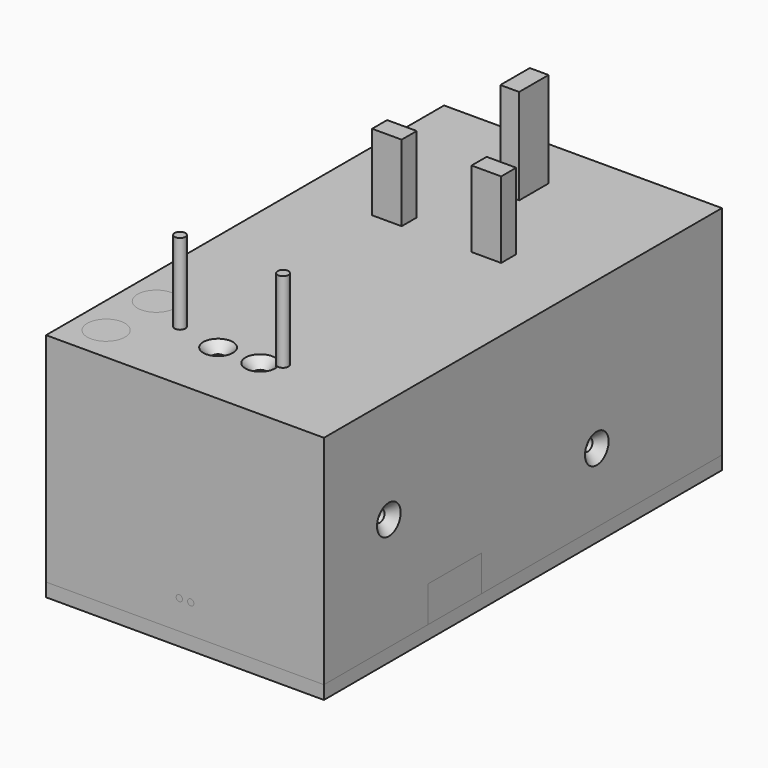
from build123d import *

# Parameters (mm, degrees)
BOX008_W                = 48
BOX008_H                = 100
BOX008_DEPTH            = 2
CYLINDER001_R           = 1.2
CYLINDER001_DEPTH       = 60
CYLINDER002_R           = 1.2
CYLINDER002_DEPTH       = 60
BOX012_W                = 16
BOX012_H                = 30
BOX012_DEPTH            = 8
BOX014_W                = 25
BOX014_H                = 16
BOX014_DEPTH            = 14
CYLINDER007_R           = 3
CYLINDER007_DEPTH       = 20
CYLINDER011_R           = 1.7
CYLINDER011_DEPTH       = 50
CYLINDER010_R           = 1.7
CYLINDER010_DEPTH       = 50
BOX022_W                = 7.5
BOX022_H                = 22
BOX022_DEPTH            = 8
CYLINDER014_R           = 1.7
CYLINDER014_DEPTH       = 50
BOX023_W                = 62
BOX023_H                = 111
BOX023_DEPTH            = 3
BOX029_W                = 50
BOX029_H                = 50
BOX029_DEPTH            = 101
BOX028_W                = 50
BOX028_H                = 50
BOX028_DEPTH            = 100
CYLINDER019_R           = 6
CYLINDER019_DEPTH       = 70
BOX027_W                = 48.2
BOX027_H                = 49.4
BOX027_DEPTH            = 50
CHAMFER003_SIZE         = 24
CHAMFER004_SIZE         = 24
FILLET004_R             = 6
FILLET005_R             = 6
FILLET006_R             = 6
FILLET007_R             = 6
BOX026_W                = 4.2
BOX026_H                = 8.2
BOX026_DEPTH            = 22.3
BOX025_W                = 6.6
BOX025_H                = 4.2
BOX025_DEPTH            = 18
BOX024_W                = 6.6
BOX024_H                = 4.2
BOX024_DEPTH            = 18
CONE004_PITCH_ANGLE     = 90
CYLINDER020_R           = 1.3
CYLINDER020_DEPTH       = 20
CYLINDER020_PITCH_ANGLE = 90
FUSION035_PITCH_ANGLE   = 90
FUSION034_PITCH_ANGLE   = 90
BOX032_W                = 56
BOX032_H                = 105
BOX032_DEPTH            = 48
BOX031_W                = 62
BOX031_H                = 111
BOX031_DEPTH            = 48.5
CYLINDER025_R           = 1.2
CYLINDER025_DEPTH       = 60
CYLINDER024_R           = 1.2
CYLINDER024_DEPTH       = 60
BOX030_W                = 55.5
BOX030_H                = 25
BOX030_DEPTH            = 2
BOX013_W                = 44
BOX013_H                = 100
BOX013_DEPTH            = 25
CYLINDER004_R           = 1.2
CYLINDER004_DEPTH       = 60
CYLINDER003_R           = 1.2
CYLINDER003_DEPTH       = 60
CONE_PITCH_ANGLE        = 90
CYLINDER005_R           = 1.3
CYLINDER005_DEPTH       = 20
CYLINDER005_PITCH_ANGLE = 90
BOX011_W                = 42
BOX011_H                = 14
BOX011_DEPTH            = 19
BOX010_W                = 55.5
BOX010_H                = 9
BOX010_DEPTH            = 8
CYLINDER026_R           = 6
CYLINDER026_DEPTH       = 70
CYLINDER023_R           = 0.7
CYLINDER023_DEPTH       = 10
CYLINDER023_ROLL_ANGLE  = 90
CYLINDER022_R           = 0.7
CYLINDER022_DEPTH       = 10
CYLINDER022_ROLL_ANGLE  = 90
BOX006_W                = 50
BOX006_H                = 50
BOX006_DEPTH            = 101
BOX004_W                = 50
BOX004_H                = 50
BOX004_DEPTH            = 100
CYLINDER_R              = 6
CYLINDER_DEPTH          = 70
BOX003_W                = 49.2
BOX003_H                = 50.4
BOX003_DEPTH            = 50
CHAMFER_SIZE            = 24
CHAMFER001_SIZE         = 24
FILLET_R                = 6
FILLET001_R             = 6
FILLET002_R             = 6
FILLET003_R             = 6
BOX002_W                = 4.2
BOX002_H                = 8.2
BOX002_DEPTH            = 22.3
BOX001_W                = 6.6
BOX001_H                = 4.2
BOX001_DEPTH            = 18
BOX_W                   = 6.6
BOX_H                   = 4.2
BOX_DEPTH               = 18
CYLINDER018_R           = 5
CYLINDER018_DEPTH       = 21
BOX009_W                = 30
BOX009_H                = 15
BOX009_DEPTH            = 8
CYLINDER017_R           = 1.2
CYLINDER017_DEPTH       = 50
CYLINDER016_R           = 1.2
CYLINDER016_DEPTH       = 50
CYLINDER015_R           = 1.2
CYLINDER015_DEPTH       = 50
CYLINDER013_R           = 1.2
CYLINDER013_DEPTH       = 50
CYLINDER012_R           = 3
CYLINDER012_DEPTH       = 20
CYLINDER009_R           = 1.7
CYLINDER009_DEPTH       = 50
CYLINDER008_R           = 1.7
CYLINDER008_DEPTH       = 50
CYLINDER006_R           = 2.5
CYLINDER006_DEPTH       = 105
CYLINDER006_ROLL_ANGLE  = 90
BOX016_W                = 16
BOX016_H                = 17
BOX016_DEPTH            = 14
BOX017_W                = 16
BOX017_H                = 23
BOX017_DEPTH            = 14
FUSION012_PITCH_ANGLE   = 90
FUSION011_PITCH_ANGLE   = 90
BOX007_W                = 56
BOX007_H                = 105
BOX007_DEPTH            = 48
BOX005_W                = 62
BOX005_H                = 111
BOX005_DEPTH            = 48.5
CHAMFER005_SIZE         = 8
BOX015_W                = 58
BOX015_H                = 3
BOX015_DEPTH            = 18
BOX021_W                = 8
BOX021_H                = 23
BOX021_DEPTH            = 6
BOX020_W                = 29
BOX020_H                = 24
BOX020_DEPTH            = 10
BOX020_ROLL_ANGLE       = -45
BOX020_PITCH_ANGLE      = -45
BOX020_PLACEMENT_ANGLE  = 0
BOX019_W                = 21
BOX019_H                = 10
BOX019_DEPTH            = 23
BOX019_PLACEMENT_ANGLE  = 45
BOX018_W                = 10
BOX018_H                = 10
BOX018_DEPTH            = 20
CUT024_PLACEMENT_ANGLE  = 90
CUT025_PLACEMENT_ANGLE  = 180
CUT026_PLACEMENT_ANGLE  = -90
CYLINDER028_R           = 1.2
CYLINDER028_DEPTH       = 60
CYLINDER027_R           = 1.2
CYLINDER027_DEPTH       = 60
BOX033_W                = 55.5
BOX033_H                = 7
BOX033_DEPTH            = 4.4
CYLINDER030_R           = 1.7
CYLINDER030_DEPTH       = 60
CYLINDER029_R           = 1.7
CYLINDER029_DEPTH       = 60


with BuildPart() as pcb:
    # Box008 → Box008 (new body)
    with BuildSketch(Plane(origin=(-27, -68, -30), x_dir=(1, 0, 0), z_dir=(0, 0, 1))):
        with Locations((24, 50)):
            Rectangle(BOX008_W, BOX008_H)
    extrude(amount=BOX008_DEPTH)


with BuildPart() as cylinder001:
    # Cylinder001 → Cylinder001 (new body)
    with BuildSketch(Plane(origin=(-14.8, -55.9, -42), x_dir=(1, 0, 0), z_dir=(0, 0, 1))):
        Circle(CYLINDER001_R)
    extrude(amount=CYLINDER001_DEPTH)


with BuildPart() as cylinder002:
    # Cylinder002 → Cylinder002 (new body)
    with BuildSketch(Plane(origin=(8.2, -55.9, -42), x_dir=(1, 0, 0), z_dir=(0, 0, 1))):
        Circle(CYLINDER002_R)
    extrude(amount=CYLINDER002_DEPTH)


with BuildPart() as usb_a_plug:
    # Box012 → Box012 (new body)
    with BuildSketch(Plane(origin=(-8, -43, -11), x_dir=(1, 0, 0), z_dir=(0, 0, 1))):
        with Locations((8, 15)):
            Rectangle(BOX012_W, BOX012_H)
    extrude(amount=BOX012_DEPTH)


with BuildPart() as screw_con:
    # Box014 → Box014 (new body)
    with BuildSketch(Plane(origin=(-12.5, -66, -17), x_dir=(1, 0, 0), z_dir=(0, 0, 1))):
        with Locations((12.5, 8)):
            Rectangle(BOX014_W, BOX014_H)
    extrude(amount=BOX014_DEPTH)


with BuildPart() as cable:
    # Cylinder007 → Cylinder007 (new body)
    with BuildSketch(Plane(origin=(-34, -58, -9), x_dir=(0, 1, 0), z_dir=(1, 0, 0))):
        Circle(CYLINDER007_R)
    extrude(amount=CYLINDER007_DEPTH)


with BuildPart() as cylinder027:
    # Cylinder011 → Cylinder011 (new body)
    with BuildSketch(Plane(origin=(-24, -51, -18), x_dir=(1, 0, 0), z_dir=(0, 0, 1))):
        Circle(CYLINDER011_R)
    extrude(amount=CYLINDER011_DEPTH)


with BuildPart() as cylinder021:
    # Cylinder010 → Cylinder010 (new body)
    with BuildSketch(Plane(origin=(-24, -65, -19), x_dir=(1, 0, 0), z_dir=(0, 0, 1))):
        Circle(CYLINDER010_R)
    extrude(amount=CYLINDER010_DEPTH)


with BuildPart() as cable_clamp:
    # Box022 → Box022 (new body)
    with BuildSketch(Plane(origin=(-27.5, -69.5, -17), x_dir=(1, 0, 0), z_dir=(0, 0, 1))):
        with Locations((3.75, 11)):
            Rectangle(BOX022_W, BOX022_H)
    extrude(amount=BOX022_DEPTH)

    # Cut031: cut Cylinder021
    add(cylinder021.part, mode=Mode.SUBTRACT)

    # Cut032: cut Cylinder027
    add(cylinder027.part, mode=Mode.SUBTRACT)

    # Cut034: cut cable
    add(cable.part, mode=Mode.SUBTRACT)


with BuildPart() as cylinder029:
    # Cylinder014 → Cylinder014 (new body)
    with BuildSketch(Plane(origin=(-25, -67, -90), x_dir=(1, 0, 0), z_dir=(0, 0, 1))):
        Circle(CYLINDER014_R)
    extrude(amount=CYLINDER014_DEPTH)


with BuildPart() as cone003:
    # Cone003 → Cone003 (revolve)
    with BuildSketch(Plane(origin=(-25, -67, -51.5), x_dir=(1, 0, 0), z_dir=(0, -1, 0))):
        Polygon((0, 0), (4.2, 0), (1.7, 2.5), (0, 2.5), align=None)
    revolve(axis=Axis((-25, -67, -51.5), (0, 0, 1)))


with BuildPart() as fusion022:
    # Fusion022 base: copy of Cone003
    add(cone003.part)

    # Fusion022: union Cylinder029
    add(cylinder029.part)


with BuildPart() as fusion022_1:
    # Fusion022 placement: moved
    add(fusion022.part.moved(Location((0, 99, 0))))


with BuildPart() as fusion023:
    # Fusion023 base: copy of Cone003
    add(cone003.part)

    # Fusion023: union Cylinder029
    add(cylinder029.part)


with BuildPart() as fusion023_1:
    # Fusion023 placement: moved
    add(fusion023.part.moved(Location((50, 99, 0))))


with BuildPart() as fusion019:
    # Fusion019 base: copy of Cone003
    add(cone003.part)

    # Fusion019: union Cylinder029
    add(cylinder029.part)


with BuildPart() as fusion021:
    # Fusion021 base: copy of Cone003
    add(cone003.part)

    # Fusion021: union Cylinder029
    add(cylinder029.part)


with BuildPart() as fusion021_1:
    # Fusion021 placement: moved
    add(fusion021.part.moved(Location((50, 0, 0))))


with BuildPart() as lid:
    # Box023 → Box023 (new body)
    with BuildSketch(Plane(origin=(-31, -73, -51.5), x_dir=(1, 0, 0), z_dir=(0, 0, 1))):
        with Locations((31, 55.5)):
            Rectangle(BOX023_W, BOX023_H)
    extrude(amount=BOX023_DEPTH)

    # Cut039: cut Fusion021
    add(fusion021_1.part, mode=Mode.SUBTRACT)

    # Cut040: cut Fusion019
    add(fusion019.part, mode=Mode.SUBTRACT)

    # Cut041: cut Fusion023
    add(fusion023_1.part, mode=Mode.SUBTRACT)

    # Cut042: cut Fusion022
    add(fusion022_1.part, mode=Mode.SUBTRACT)


with BuildPart() as cube021:
    # Box029 → Box029 (new body)
    with BuildSketch(Plane(origin=(-25, -16, -123.5), x_dir=(1, 0, 0), z_dir=(0, 0, 1))):
        with Locations((25, 25)):
            Rectangle(BOX029_W, BOX029_H)
    extrude(amount=BOX029_DEPTH)


with BuildPart() as cube020:
    # Box028 → Box028 (new body)
    with BuildSketch(Plane(origin=(-25, -18, -60), x_dir=(1, 0, 0), z_dir=(0, 0, 1))):
        with Locations((25, 25)):
            Rectangle(BOX028_W, BOX028_H)
    extrude(amount=BOX028_DEPTH)


with BuildPart() as fusion024:
    # Cylinder019 → Cylinder019 (new body)
    with BuildSketch(Plane(origin=(0, 27.75, -60), x_dir=(1, 0, 0), z_dir=(0, 0, 1))):
        Circle(CYLINDER019_R)
    extrude(amount=CYLINDER019_DEPTH)

    # Fusion024: union Cube020
    add(cube020.part)


with BuildPart() as common001:
    # Box027 → Box027 (new body)
    with BuildSketch(Plane(origin=(-24.1, -13.3, -50), x_dir=(1, 0, 0), z_dir=(0, 0, 1))):
        with Locations((24.1, 24.7)):
            Rectangle(BOX027_W, BOX027_H)
    extrude(amount=BOX027_DEPTH)

    # Chamfer003
    chamfer003_edges = [common001.edges().sort_by_distance(p)[0] for p in [
        (-24.1, 36.1, -25),
    ]]
    chamfer(chamfer003_edges, length=CHAMFER003_SIZE)

    # Chamfer004
    chamfer004_edges = [common001.edges().sort_by_distance(p)[0] for p in [
        (24.1, 36.1, -25),
    ]]
    chamfer(chamfer004_edges, length=CHAMFER004_SIZE)

    # Fillet004
    fillet004_edges = [common001.edges().sort_by_distance(p)[0] for p in [
        (24.1, -13.3, -25),
    ]]
    fillet(fillet004_edges, radius=FILLET004_R)

    # Fillet005
    fillet005_edges = [common001.edges().sort_by_distance(p)[0] for p in [
        (24.1, 12.1, -25),
    ]]
    fillet(fillet005_edges, radius=FILLET005_R)

    # Fillet006
    fillet006_edges = [common001.edges().sort_by_distance(p)[0] for p in [
        (-24.1, -13.3, -25),
    ]]
    fillet(fillet006_edges, radius=FILLET006_R)

    # Fillet007
    fillet007_edges = [common001.edges().sort_by_distance(p)[0] for p in [
        (-24.1, 12.1, -25),
    ]]
    fillet(fillet007_edges, radius=FILLET007_R)

    # Common001: intersect Fusion024
    add(fusion024.part, mode=Mode.INTERSECT)


with BuildPart() as fusion025:
    # Box026 → Box026 (new body)
    with BuildSketch(Plane(origin=(-2.1, 18.2, 0), x_dir=(1, 0, 0), z_dir=(0, 0, 1))):
        with Locations((2.1, 4.1)):
            Rectangle(BOX026_W, BOX026_H)
    extrude(amount=BOX026_DEPTH)

    # Fusion025: union Common001
    add(common001.part)


with BuildPart() as fusion026:
    # Box025 → Box025 (new body)
    with BuildSketch(Plane(origin=(-14.4, -2.2, 0), x_dir=(1, 0, 0), z_dir=(0, 0, 1))):
        with Locations((3.3, 2.1)):
            Rectangle(BOX025_W, BOX025_H)
    extrude(amount=BOX025_DEPTH)

    # Fusion026: union Fusion025
    add(fusion025.part)


with BuildPart() as f_13a_charger:
    # Box024 → Box024 (new body)
    with BuildSketch(Plane(origin=(7.8, -2.2, 0), x_dir=(1, 0, 0), z_dir=(0, 0, 1))):
        with Locations((3.3, 2.1)):
            Rectangle(BOX024_W, BOX024_H)
    extrude(amount=BOX024_DEPTH)

    # Fusion027: union Fusion026
    add(fusion026.part)

    # Cut046: cut Cube021
    add(cube021.part, mode=Mode.SUBTRACT)


with BuildPart() as f_13a_charger_1:
    # Cut046 placement: moved
    add(f_13a_charger.part.moved(Location((-0.5, 0, -1))))


with BuildPart() as cone004:
    # Cone004 → Cone004 (revolve)
    with BuildSketch(Plane.XZ):
        Polygon((0, 0), (3.3, 0), (1.3, 2), (0, 2), align=None)
    revolve(axis=Axis((0, 0, 0), (0, 0, 1)))


with BuildPart() as cone004_1:
    # Cone004 pitch: moved
    add(cone004.part.rotate(Axis((0, 0, 0), (0, 1, 0)), CONE004_PITCH_ANGLE))


with BuildPart() as cone004_2:
    # Cone004 placement: moved
    add(cone004_1.part.moved(Location((-31, 3.1, -33))))


with BuildPart() as cylinder035:
    # Cylinder020 → Cylinder020 (new body)
    with BuildSketch(Plane.XY):
        Circle(CYLINDER020_R)
    extrude(amount=CYLINDER020_DEPTH)


with BuildPart() as cylinder035_1:
    # Cylinder020 pitch: moved
    add(cylinder035.part.rotate(Axis((0, 0, 0), (0, 1, 0)), CYLINDER020_PITCH_ANGLE))


with BuildPart() as cylinder035_2:
    # Cylinder020 placement: moved
    add(cylinder035_1.part.moved(Location((-33.8, 3.1, -33))))


with BuildPart() as fusion035:
    # Fusion035 base: copy of Cylinder035
    add(cylinder035_2.part)

    # Fusion035: union Cone004
    add(cone004_2.part)


with BuildPart() as fusion035_1:
    # Fusion035 pitch: moved
    add(fusion035.part.rotate(Axis((0, 0, 0), (0, 1, 0)), FUSION035_PITCH_ANGLE))


with BuildPart() as fusion035_2:
    # Fusion035 placement: moved
    add(fusion035_1.part.moved(Location((28.3, -61, -31))))


with BuildPart() as fusion034:
    # Fusion034 base: copy of Cylinder035
    add(cylinder035_2.part)

    # Fusion034: union Cone004
    add(cone004_2.part)


with BuildPart() as fusion034_1:
    # Fusion034 pitch: moved
    add(fusion034.part.rotate(Axis((0, 0, 0), (0, 1, 0)), FUSION034_PITCH_ANGLE))


with BuildPart() as fusion034_2:
    # Fusion034 placement: moved
    add(fusion034_1.part.moved(Location((37.7, -61, -31))))


with BuildPart() as fusion030:
    # Fusion030 base: copy of Cylinder035
    add(cylinder035_2.part)

    # Fusion030: union Cone004
    add(cone004_2.part)


with BuildPart() as part_mirroring004:
    # Part__Mirroring004: instance of Fusion030
    add(fusion030.part.mirror(Plane(origin=(0, 0, 0), x_dir=(0, -1, 0), z_dir=(1, 0, 0))))


with BuildPart() as part_mirroring004_1:
    # Part__Mirroring004 placement: moved
    add(part_mirroring004.part.moved(Location((0, -58, 9.6))))


with BuildPart() as fusion033:
    # Fusion033 base: copy of Cylinder035
    add(cylinder035_2.part)

    # Fusion033: union Cone004
    add(cone004_2.part)


with BuildPart() as fusion033_1:
    # Fusion033 placement: moved
    add(fusion033.part.moved(Location((0, -58, 9.6))))


with BuildPart() as fusion032:
    # Fusion032 base: copy of Cylinder035
    add(cylinder035_2.part)

    # Fusion032: union Cone004
    add(cone004_2.part)


with BuildPart() as fusion032_1:
    # Fusion032 placement: moved
    add(fusion032.part.moved(Location((-37, -45, 9.6))))


with BuildPart() as part_mirroring003:
    # Part__Mirroring003: instance of Fusion030
    add(fusion030.part.mirror(Plane(origin=(0, 0, 0), x_dir=(0, -1, 0), z_dir=(1, 0, 0))))


with BuildPart() as fusion031:
    # Fusion031 base: copy of Cylinder035
    add(cylinder035_2.part)

    # Fusion031: union Cone004
    add(cone004_2.part)


with BuildPart() as fusion029:
    # Fusion029 base: copy of Cylinder035
    add(cylinder035_2.part)

    # Fusion029: union Cone004
    add(cone004_2.part)


with BuildPart() as fusion029_1:
    # Fusion029 placement: moved
    add(fusion029.part.moved(Location((-47, 13, 0))))


with BuildPart() as cube024:
    # Box032 → Box032 (new body)
    with BuildSketch(Plane(origin=(-28, -70, -51), x_dir=(1, 0, 0), z_dir=(0, 0, 1))):
        with Locations((28, 52.5)):
            Rectangle(BOX032_W, BOX032_H)
    extrude(amount=BOX032_DEPTH)


with BuildPart() as cut055:
    # Box031 → Box031 (new body)
    with BuildSketch(Plane(origin=(-31, -73, -48.5), x_dir=(1, 0, 0), z_dir=(0, 0, 1))):
        with Locations((31, 55.5)):
            Rectangle(BOX031_W, BOX031_H)
    extrude(amount=BOX031_DEPTH)

    # Cut047: cut Cube024
    add(cube024.part, mode=Mode.SUBTRACT)

    # Cut048: cut Fusion029
    add(fusion029_1.part, mode=Mode.SUBTRACT)

    # Cut049: cut Fusion031
    add(fusion031.part, mode=Mode.SUBTRACT)

    # Cut050: cut Part__Mirroring003
    add(part_mirroring003.part, mode=Mode.SUBTRACT)

    # Cut051: cut Fusion032
    add(fusion032_1.part, mode=Mode.SUBTRACT)

    # Cut052: cut Fusion033
    add(fusion033_1.part, mode=Mode.SUBTRACT)

    # Cut053: cut Part__Mirroring004
    add(part_mirroring004_1.part, mode=Mode.SUBTRACT)

    # Cut054: cut Fusion034
    add(fusion034_2.part, mode=Mode.SUBTRACT)

    # Cut055: cut Fusion035
    add(fusion035_2.part, mode=Mode.SUBTRACT)


with BuildPart() as cylinder039:
    # Cylinder025 → Cylinder025 (new body)
    with BuildSketch(Plane(origin=(8.2, -55.9, -42), x_dir=(1, 0, 0), z_dir=(0, 0, 1))):
        Circle(CYLINDER025_R)
    extrude(amount=CYLINDER025_DEPTH)


with BuildPart() as cylinder038:
    # Cylinder024 → Cylinder024 (new body)
    with BuildSketch(Plane(origin=(-14.8, -55.9, -42), x_dir=(1, 0, 0), z_dir=(0, 0, 1))):
        Circle(CYLINDER024_R)
    extrude(amount=CYLINDER024_DEPTH)


with BuildPart() as cube022:
    # Box030 → Box030 (new body)
    with BuildSketch(Plane(origin=(-27.75, -69.5, -22), x_dir=(1, 0, 0), z_dir=(0, 0, 1))):
        with Locations((27.75, 12.5)):
            Rectangle(BOX030_W, BOX030_H)
    extrude(amount=BOX030_DEPTH)


with BuildPart() as cube012:
    # Box013 → Box013 (new body)
    with BuildSketch(Plane(origin=(-25, -68, -51.5), x_dir=(1, 0, 0), z_dir=(0, 0, 1))):
        with Locations((22, 50)):
            Rectangle(BOX013_W, BOX013_H)
    extrude(amount=BOX013_DEPTH)


with BuildPart() as cylinder004:
    # Cylinder004 → Cylinder004 (new body)
    with BuildSketch(Plane(origin=(-14.8, 2.1, -42), x_dir=(1, 0, 0), z_dir=(0, 0, 1))):
        Circle(CYLINDER004_R)
    extrude(amount=CYLINDER004_DEPTH)


with BuildPart() as cylinder003:
    # Cylinder003 → Cylinder003 (new body)
    with BuildSketch(Plane(origin=(8.2, 2.1, -42), x_dir=(1, 0, 0), z_dir=(0, 0, 1))):
        Circle(CYLINDER003_R)
    extrude(amount=CYLINDER003_DEPTH)


with BuildPart() as cone:
    # Cone → Cone (revolve)
    with BuildSketch(Plane.XZ):
        Polygon((0, 0), (3.3, 0), (1.3, 2), (0, 2), align=None)
    revolve(axis=Axis((0, 0, 0), (0, 0, 1)))


with BuildPart() as cone_1:
    # Cone pitch: moved
    add(cone.part.rotate(Axis((0, 0, 0), (0, 1, 0)), CONE_PITCH_ANGLE))


with BuildPart() as cone_2:
    # Cone placement: moved
    add(cone_1.part.moved(Location((-31, 3.1, -33))))


with BuildPart() as cylinder005:
    # Cylinder005 → Cylinder005 (new body)
    with BuildSketch(Plane.XY):
        Circle(CYLINDER005_R)
    extrude(amount=CYLINDER005_DEPTH)


with BuildPart() as cylinder005_1:
    # Cylinder005 pitch: moved
    add(cylinder005.part.rotate(Axis((0, 0, 0), (0, 1, 0)), CYLINDER005_PITCH_ANGLE))


with BuildPart() as cylinder005_2:
    # Cylinder005 placement: moved
    add(cylinder005_1.part.moved(Location((-33.8, 3.1, -33))))


with BuildPart() as fusion008:
    # Fusion008 base: copy of Cylinder005
    add(cylinder005_2.part)

    # Fusion008: union Cone
    add(cone_2.part)


with BuildPart() as fusion005:
    # Fusion005 base: copy of Cylinder005
    add(cylinder005_2.part)

    # Fusion005: union Cone
    add(cone_2.part)


with BuildPart() as part_mirroring001:
    # Part__Mirroring001: instance of Fusion005
    add(fusion005.part.mirror(Plane(origin=(0, 0, 0), x_dir=(0, -1, 0), z_dir=(1, 0, 0))))


with BuildPart() as fusion007:
    # Fusion007 base: copy of Cylinder005
    add(cylinder005_2.part)

    # Fusion007: union Cone
    add(cone_2.part)


with BuildPart() as fusion007_1:
    # Fusion007 placement: moved
    add(fusion007.part.moved(Location((0, 13, 0))))


with BuildPart() as cube011:
    # Box011 → Box011 (new body)
    with BuildSketch(Plane(origin=(-9, 8.5, -33.5), x_dir=(1, 0, 0), z_dir=(0, 0, 1))):
        with Locations((21, 7)):
            Rectangle(BOX011_W, BOX011_H)
    extrude(amount=BOX011_DEPTH)


with BuildPart() as cut010:
    # Box010 → Box010 (new body)
    with BuildSketch(Plane(origin=(-27.75, -0.5, -28.5), x_dir=(1, 0, 0), z_dir=(0, 0, 1))):
        with Locations((27.75, 4.5)):
            Rectangle(BOX010_W, BOX010_H)
    extrude(amount=BOX010_DEPTH)

    # Cut003: cut Cube011
    add(cube011.part, mode=Mode.SUBTRACT)


with BuildPart() as cut010_1:
    # Cut003 placement: moved
    add(cut010.part.moved(Location((0, 0, -9.27))))

    # Cut007: cut Fusion007
    add(fusion007_1.part, mode=Mode.SUBTRACT)

    # Cut008: cut Part__Mirroring001
    add(part_mirroring001.part, mode=Mode.SUBTRACT)

    # Cut009: cut Fusion008
    add(fusion008.part, mode=Mode.SUBTRACT)

    # Cut010: cut Cylinder003
    add(cylinder003.part, mode=Mode.SUBTRACT)


with BuildPart() as cut074:
    # Cut012 base: copy of Cut010
    add(cut010_1.part)

    # Cut012: cut Cylinder004
    add(cylinder004.part, mode=Mode.SUBTRACT)


with BuildPart() as cut074_1:
    # Cut012 placement: moved
    add(cut074.part.moved(Location((0, -58, 9.6))))

    # Cut016: cut Cube012
    add(cube012.part, mode=Mode.SUBTRACT)

    # Fusion028: union Cube022
    add(cube022.part)

    # Cut073: cut Cylinder038
    add(cylinder038.part, mode=Mode.SUBTRACT)

    # Cut074: cut Cylinder039
    add(cylinder039.part, mode=Mode.SUBTRACT)


with BuildPart() as cylinder040:
    # Cylinder026 → Cylinder026 (new body)
    with BuildSketch(Plane(origin=(-0.5, 29, -71), x_dir=(1, 0, 0), z_dir=(0, 0, 1))):
        Circle(CYLINDER026_R)
    extrude(amount=CYLINDER026_DEPTH)


with BuildPart() as cylinder037:
    # Cylinder023 → Cylinder023 (new body)
    with BuildSketch(Plane.XY):
        Circle(CYLINDER023_R)
    extrude(amount=CYLINDER023_DEPTH)


with BuildPart() as cylinder037_1:
    # Cylinder023 roll: moved
    add(cylinder037.part.rotate(Axis((0, 0, 0), (1, 0, 0)), CYLINDER023_ROLL_ANGLE))


with BuildPart() as cylinder037_2:
    # Cylinder023 placement: moved
    add(cylinder037_1.part.moved(Location((-1.27, -67, -42))))


with BuildPart() as cylinder036:
    # Cylinder022 → Cylinder022 (new body)
    with BuildSketch(Plane.XY):
        Circle(CYLINDER022_R)
    extrude(amount=CYLINDER022_DEPTH)


with BuildPart() as cylinder036_1:
    # Cylinder022 roll: moved
    add(cylinder036.part.rotate(Axis((0, 0, 0), (1, 0, 0)), CYLINDER022_ROLL_ANGLE))


with BuildPart() as cylinder036_2:
    # Cylinder022 placement: moved
    add(cylinder036_1.part.moved(Location((1.27, -67, -42))))


with BuildPart() as cube006:
    # Box006 → Box006 (new body)
    with BuildSketch(Plane(origin=(-25, -16, -123.5), x_dir=(1, 0, 0), z_dir=(0, 0, 1))):
        with Locations((25, 25)):
            Rectangle(BOX006_W, BOX006_H)
    extrude(amount=BOX006_DEPTH)


with BuildPart() as cube004:
    # Box004 → Box004 (new body)
    with BuildSketch(Plane(origin=(-25, -18, -60), x_dir=(1, 0, 0), z_dir=(0, 0, 1))):
        with Locations((25, 25)):
            Rectangle(BOX004_W, BOX004_H)
    extrude(amount=BOX004_DEPTH)


with BuildPart() as fusion:
    # Cylinder → Cylinder (new body)
    with BuildSketch(Plane(origin=(0, 27.75, -60), x_dir=(1, 0, 0), z_dir=(0, 0, 1))):
        Circle(CYLINDER_R)
    extrude(amount=CYLINDER_DEPTH)

    # Fusion: union Cube004
    add(cube004.part)


with BuildPart() as common:
    # Box003 → Box003 (new body)
    with BuildSketch(Plane(origin=(-24.6, -13.8, -50), x_dir=(1, 0, 0), z_dir=(0, 0, 1))):
        with Locations((24.6, 25.2)):
            Rectangle(BOX003_W, BOX003_H)
    extrude(amount=BOX003_DEPTH)

    # Chamfer
    chamfer_edges = [common.edges().sort_by_distance(p)[0] for p in [
        (-24.6, 36.6, -25),
    ]]
    chamfer(chamfer_edges, length=CHAMFER_SIZE)

    # Chamfer001
    chamfer001_edges = [common.edges().sort_by_distance(p)[0] for p in [
        (24.6, 36.6, -25),
    ]]
    chamfer(chamfer001_edges, length=CHAMFER001_SIZE)

    # Fillet
    fillet_edges = [common.edges().sort_by_distance(p)[0] for p in [
        (24.6, -13.8, -25),
    ]]
    fillet(fillet_edges, radius=FILLET_R)

    # Fillet001
    fillet001_edges = [common.edges().sort_by_distance(p)[0] for p in [
        (24.6, 12.6, -25),
    ]]
    fillet(fillet001_edges, radius=FILLET001_R)

    # Fillet002
    fillet002_edges = [common.edges().sort_by_distance(p)[0] for p in [
        (-24.6, -13.8, -25),
    ]]
    fillet(fillet002_edges, radius=FILLET002_R)

    # Fillet003
    fillet003_edges = [common.edges().sort_by_distance(p)[0] for p in [
        (-24.6, 12.6, -25),
    ]]
    fillet(fillet003_edges, radius=FILLET003_R)

    # Common: intersect Fusion
    add(fusion.part, mode=Mode.INTERSECT)


with BuildPart() as fusion001:
    # Box002 → Box002 (new body)
    with BuildSketch(Plane(origin=(-2.1, 18.2, 0), x_dir=(1, 0, 0), z_dir=(0, 0, 1))):
        with Locations((2.1, 4.1)):
            Rectangle(BOX002_W, BOX002_H)
    extrude(amount=BOX002_DEPTH)

    # Fusion001: union Common
    add(common.part)


with BuildPart() as fusion002:
    # Box001 → Box001 (new body)
    with BuildSketch(Plane(origin=(-14.4, -2.2, 0), x_dir=(1, 0, 0), z_dir=(0, 0, 1))):
        with Locations((3.3, 2.1)):
            Rectangle(BOX001_W, BOX001_H)
    extrude(amount=BOX001_DEPTH)

    # Fusion002: union Fusion001
    add(fusion001.part)


with BuildPart() as plug_blank:
    # Box → Box (new body)
    with BuildSketch(Plane(origin=(7.8, -2.2, 0), x_dir=(1, 0, 0), z_dir=(0, 0, 1))):
        with Locations((3.3, 2.1)):
            Rectangle(BOX_W, BOX_H)
    extrude(amount=BOX_DEPTH)

    # Fusion003: union Fusion002
    add(fusion002.part)

    # Cut: cut Cube006
    add(cube006.part, mode=Mode.SUBTRACT)


with BuildPart() as plug_blank_1:
    # Cut placement: moved
    add(plug_blank.part.moved(Location((-0.5, 0, -1))))


with BuildPart() as cylinder033:
    # Cylinder018 → Cylinder018 (new body)
    with BuildSketch(Plane(origin=(0, -40, -24), x_dir=(1, 0, 0), z_dir=(0, 0, 1))):
        Circle(CYLINDER018_R)
    extrude(amount=CYLINDER018_DEPTH)


with BuildPart() as wifi:
    # Box009 → Box009 (new body)
    with BuildSketch(Plane(origin=(11, -44, -48.5), x_dir=(1, 0, 0), z_dir=(0, 0, 1))):
        with Locations((15, 7.5)):
            Rectangle(BOX009_W, BOX009_H)
    extrude(amount=BOX009_DEPTH)


with BuildPart() as cylinder032:
    # Cylinder017 → Cylinder017 (new body)
    with BuildSketch(Plane(origin=(25, 32, -90), x_dir=(1, 0, 0), z_dir=(0, 0, 1))):
        Circle(CYLINDER017_R)
    extrude(amount=CYLINDER017_DEPTH)


with BuildPart() as cylinder031:
    # Cylinder016 → Cylinder016 (new body)
    with BuildSketch(Plane(origin=(-25, 32, -90), x_dir=(1, 0, 0), z_dir=(0, 0, 1))):
        Circle(CYLINDER016_R)
    extrude(amount=CYLINDER016_DEPTH)


with BuildPart() as cylinder030:
    # Cylinder015 → Cylinder015 (new body)
    with BuildSketch(Plane(origin=(25, -67, -90), x_dir=(1, 0, 0), z_dir=(0, 0, 1))):
        Circle(CYLINDER015_R)
    extrude(amount=CYLINDER015_DEPTH)


with BuildPart() as cylinder028:
    # Cylinder013 → Cylinder013 (new body)
    with BuildSketch(Plane(origin=(-25, -67, -90), x_dir=(1, 0, 0), z_dir=(0, 0, 1))):
        Circle(CYLINDER013_R)
    extrude(amount=CYLINDER013_DEPTH)


with BuildPart() as cone002:
    # Cone002 → Cone002 (revolve)
    with BuildSketch(Plane(origin=(-24, -65, -2.5), x_dir=(1, 0, 0), z_dir=(0, -1, 0))):
        Polygon((0, 0), (1.7, 0), (4.2, 2.5), (0, 2.5), align=None)
    revolve(axis=Axis((-24, -65, -2.5), (0, 0, 1)))


with BuildPart() as cone001:
    # Cone001 → Cone001 (revolve)
    with BuildSketch(Plane(origin=(-24, -51, -2.5), x_dir=(1, 0, 0), z_dir=(0, -1, 0))):
        Polygon((0, 0), (1.7, 0), (4.2, 2.5), (0, 2.5), align=None)
    revolve(axis=Axis((-24, -51, -2.5), (0, 0, 1)))


with BuildPart() as cable001:
    # Cylinder012 → Cylinder012 (new body)
    with BuildSketch(Plane(origin=(-34, -58, -9), x_dir=(0, 1, 0), z_dir=(1, 0, 0))):
        Circle(CYLINDER012_R)
    extrude(amount=CYLINDER012_DEPTH)


with BuildPart() as cylinder007:
    # Cylinder009 → Cylinder009 (new body)
    with BuildSketch(Plane(origin=(-24, -51, -18), x_dir=(1, 0, 0), z_dir=(0, 0, 1))):
        Circle(CYLINDER009_R)
    extrude(amount=CYLINDER009_DEPTH)


with BuildPart() as cylinder006:
    # Cylinder008 → Cylinder008 (new body)
    with BuildSketch(Plane(origin=(-24, -65, -19), x_dir=(1, 0, 0), z_dir=(0, 0, 1))):
        Circle(CYLINDER008_R)
    extrude(amount=CYLINDER008_DEPTH)


with BuildPart() as gallery3:
    # Cylinder006 → Cylinder006 (new body)
    with BuildSketch(Plane.XY):
        Circle(CYLINDER006_R)
    extrude(amount=CYLINDER006_DEPTH)


with BuildPart() as gallery3_1:
    # Cylinder006 roll: moved
    add(gallery3.part.rotate(Axis((0, 0, 0), (1, 0, 0)), CYLINDER006_ROLL_ANGLE))


with BuildPart() as gallery3_2:
    # Cylinder006 placement: moved
    add(gallery3_1.part.moved(Location((27.5, 35, -4))))


with BuildPart() as gallery1:
    # Box016 → Box016 (new body)
    with BuildSketch(Plane(origin=(12, 18, -17), x_dir=(1, 0, 0), z_dir=(0, 0, 1))):
        with Locations((8, 8.5)):
            Rectangle(BOX016_W, BOX016_H)
    extrude(amount=BOX016_DEPTH)


with BuildPart() as gallery2:
    # Box017 → Box017 (new body)
    with BuildSketch(Plane(origin=(12, -70, -17), x_dir=(1, 0, 0), z_dir=(0, 0, 1))):
        with Locations((8, 11.5)):
            Rectangle(BOX017_W, BOX017_H)
    extrude(amount=BOX017_DEPTH)


with BuildPart() as fusion012:
    # Fusion012 base: copy of Cylinder005
    add(cylinder005_2.part)

    # Fusion012: union Cone
    add(cone_2.part)


with BuildPart() as fusion012_1:
    # Fusion012 pitch: moved
    add(fusion012.part.rotate(Axis((0, 0, 0), (0, 1, 0)), FUSION012_PITCH_ANGLE))


with BuildPart() as fusion012_2:
    # Fusion012 placement: moved
    add(fusion012_1.part.moved(Location((28.3, -61, -31))))


with BuildPart() as fusion011:
    # Fusion011 base: copy of Cylinder005
    add(cylinder005_2.part)

    # Fusion011: union Cone
    add(cone_2.part)


with BuildPart() as fusion011_1:
    # Fusion011 pitch: moved
    add(fusion011.part.rotate(Axis((0, 0, 0), (0, 1, 0)), FUSION011_PITCH_ANGLE))


with BuildPart() as fusion011_2:
    # Fusion011 placement: moved
    add(fusion011_1.part.moved(Location((37.7, -61, -31))))


with BuildPart() as part_mirroring002:
    # Part__Mirroring002: instance of Fusion005
    add(fusion005.part.mirror(Plane(origin=(0, 0, 0), x_dir=(0, -1, 0), z_dir=(1, 0, 0))))


with BuildPart() as part_mirroring002_1:
    # Part__Mirroring002 placement: moved
    add(part_mirroring002.part.moved(Location((0, -58, 9.6))))


with BuildPart() as fusion010:
    # Fusion010 base: copy of Cylinder005
    add(cylinder005_2.part)

    # Fusion010: union Cone
    add(cone_2.part)


with BuildPart() as fusion010_1:
    # Fusion010 placement: moved
    add(fusion010.part.moved(Location((0, -58, 9.6))))


with BuildPart() as fusion009:
    # Fusion009 base: copy of Cylinder005
    add(cylinder005_2.part)

    # Fusion009: union Cone
    add(cone_2.part)


with BuildPart() as fusion009_1:
    # Fusion009 placement: moved
    add(fusion009.part.moved(Location((-37, -45, 9.6))))


with BuildPart() as part_mirroring:
    # Part__Mirroring: instance of Fusion005
    add(fusion005.part.mirror(Plane(origin=(0, 0, 0), x_dir=(0, -1, 0), z_dir=(1, 0, 0))))


with BuildPart() as fusion006:
    # Fusion006 base: copy of Cylinder005
    add(cylinder005_2.part)

    # Fusion006: union Cone
    add(cone_2.part)


with BuildPart() as fusion004:
    # Fusion004 base: copy of Cylinder005
    add(cylinder005_2.part)

    # Fusion004: union Cone
    add(cone_2.part)


with BuildPart() as fusion004_1:
    # Fusion004 placement: moved
    add(fusion004.part.moved(Location((-47, 13, 0))))


with BuildPart() as cube007:
    # Box007 → Box007 (new body)
    with BuildSketch(Plane(origin=(-28, -70, -51), x_dir=(1, 0, 0), z_dir=(0, 0, 1))):
        with Locations((28, 52.5)):
            Rectangle(BOX007_W, BOX007_H)
    extrude(amount=BOX007_DEPTH)


with BuildPart() as chamfer005:
    # Box005 → Box005 (new body)
    with BuildSketch(Plane(origin=(-31, -73, -48.5), x_dir=(1, 0, 0), z_dir=(0, 0, 1))):
        with Locations((31, 55.5)):
            Rectangle(BOX005_W, BOX005_H)
    extrude(amount=BOX005_DEPTH)

    # Cut001: cut Cube007
    add(cube007.part, mode=Mode.SUBTRACT)

    # Cut004: cut Fusion004
    add(fusion004_1.part, mode=Mode.SUBTRACT)

    # Cut005: cut Fusion006
    add(fusion006.part, mode=Mode.SUBTRACT)

    # Cut006: cut Part__Mirroring
    add(part_mirroring.part, mode=Mode.SUBTRACT)

    # Cut013: cut Fusion009
    add(fusion009_1.part, mode=Mode.SUBTRACT)

    # Cut014: cut Fusion010
    add(fusion010_1.part, mode=Mode.SUBTRACT)

    # Cut015: cut Part__Mirroring002
    add(part_mirroring002_1.part, mode=Mode.SUBTRACT)

    # Cut017: cut Fusion011
    add(fusion011_2.part, mode=Mode.SUBTRACT)

    # Cut018: cut Fusion012
    add(fusion012_2.part, mode=Mode.SUBTRACT)

    # Chamfer005
    chamfer005_edges = [chamfer005.edges().sort_by_distance(p)[0] for p in [
        (28, -17.5, -3),
    ]]
    chamfer(chamfer005_edges, length=CHAMFER005_SIZE)


with BuildPart() as cut058:
    # Box015 → Box015 (new body)
    with BuildSketch(Plane(origin=(-29.5, -47, -20), x_dir=(1, 0, 0), z_dir=(0, 0, 1))):
        with Locations((29, 1.5)):
            Rectangle(BOX015_W, BOX015_H)
    extrude(amount=BOX015_DEPTH)

    # Fusion036: union Chamfer005
    add(chamfer005.part)

    # Cut056: cut gallery2
    add(gallery2.part, mode=Mode.SUBTRACT)

    # Cut057: cut gallery1
    add(gallery1.part, mode=Mode.SUBTRACT)

    # Cut058: cut gallery3
    add(gallery3_2.part, mode=Mode.SUBTRACT)


with BuildPart() as cut063:
    # Box021 → Box021 (new body)
    with BuildSketch(Plane(origin=(-28, -70, -8), x_dir=(1, 0, 0), z_dir=(0, 0, 1))):
        with Locations((4, 11.5)):
            Rectangle(BOX021_W, BOX021_H)
    extrude(amount=BOX021_DEPTH)

    # Fusion037: union Cut058
    add(cut058.part)

    # Cut059: cut Cylinder006
    add(cylinder006.part, mode=Mode.SUBTRACT)

    # Cut060: cut Cylinder007
    add(cylinder007.part, mode=Mode.SUBTRACT)

    # Cut061: cut cable001
    add(cable001.part, mode=Mode.SUBTRACT)

    # Cut062: cut Cone001
    add(cone001.part, mode=Mode.SUBTRACT)

    # Cut063: cut Cone002
    add(cone002.part, mode=Mode.SUBTRACT)


with BuildPart() as cube015:
    # Box020 → Box020 (new body)
    with BuildSketch(Plane.XY):
        with Locations((14.5, 12)):
            Rectangle(BOX020_W, BOX020_H)
    extrude(amount=BOX020_DEPTH)


with BuildPart() as cube015_1:
    # Box020 roll: moved
    add(cube015.part.rotate(Axis((0, 0, 0), (1, 0, 0)), BOX020_ROLL_ANGLE))


with BuildPart() as cube015_2:
    # Box020 pitch: moved
    add(cube015_1.part.rotate(Axis((0, 0, 0), (0, 1, 0)), BOX020_PITCH_ANGLE))


with BuildPart() as cube015_3:
    # Box020 placement: moved
    add(cube015_2.part.moved(Location((-9.863961, -4.949747, 7.136039))).rotate(Axis((-9.863961, -4.949747, 7.136039), (0, 0, 1)), BOX020_PLACEMENT_ANGLE))


with BuildPart() as cube014:
    # Box019 → Box019 (new body)
    with BuildSketch(Plane.XY):
        with Locations((10.5, 5)):
            Rectangle(BOX019_W, BOX019_H)
    extrude(amount=BOX019_DEPTH)


with BuildPart() as cube014_1:
    # Box019 placement: moved
    add(cube014.part.moved(Location((0, 0, -1))).rotate(Axis((0, 0, -1), (0, 0, 1)), BOX019_PLACEMENT_ANGLE))


with BuildPart() as cut022:
    # Box018 → Box018 (new body)
    with BuildSketch(Plane.XY):
        with Locations((5, 5)):
            Rectangle(BOX018_W, BOX018_H)
    extrude(amount=BOX018_DEPTH)

    # Cut022: cut Cube014
    add(cube014_1.part, mode=Mode.SUBTRACT)


with BuildPart() as fusion038:
    # Cut024 base: copy of Cut022
    add(cut022.part)

    # Cut024: cut Cube015
    add(cube015_3.part, mode=Mode.SUBTRACT)


with BuildPart() as fusion038_1:
    # Cut024 placement: moved
    add(fusion038.part.moved(Location((28, 25, -48))).rotate(Axis((28, 25, -48), (0, 0, 1)), CUT024_PLACEMENT_ANGLE))

    # Fusion038: union Cut063
    add(cut063.part)


with BuildPart() as fusion039:
    # Cut025 base: copy of Cut022
    add(cut022.part)

    # Cut025: cut Cube015
    add(cube015_3.part, mode=Mode.SUBTRACT)


with BuildPart() as fusion039_1:
    # Cut025 placement: moved
    add(fusion039.part.moved(Location((-18, 35, -48))).rotate(Axis((-18, 35, -48), (0, 0, 1)), CUT025_PLACEMENT_ANGLE))

    # Fusion039: union Fusion038
    add(fusion038_1.part)


with BuildPart() as fusion040:
    # Cut026 base: copy of Cut022
    add(cut022.part)

    # Cut026: cut Cube015
    add(cube015_3.part, mode=Mode.SUBTRACT)


with BuildPart() as fusion040_1:
    # Cut026 placement: moved
    add(fusion040.part.moved(Location((-28, -60, -48))).rotate(Axis((-28, -60, -48), (0, 0, 1)), CUT026_PLACEMENT_ANGLE))

    # Fusion040: union Fusion039
    add(fusion039_1.part)


with BuildPart() as body:
    # Cut023 base: copy of Cut022
    add(cut022.part)

    # Cut023: cut Cube015
    add(cube015_3.part, mode=Mode.SUBTRACT)


with BuildPart() as body_1:
    # Cut023 placement: moved
    add(body.part.moved(Location((18, -70, -48))))

    # Fusion041: union Fusion040
    add(fusion040_1.part)

    # Cut064: cut Cylinder028
    add(cylinder028.part, mode=Mode.SUBTRACT)

    # Cut065: cut Cylinder030
    add(cylinder030.part, mode=Mode.SUBTRACT)

    # Cut066: cut Cylinder031
    add(cylinder031.part, mode=Mode.SUBTRACT)

    # Cut067: cut Cylinder032
    add(cylinder032.part, mode=Mode.SUBTRACT)

    # Cut068: cut wifi
    add(wifi.part, mode=Mode.SUBTRACT)

    # Cut069: cut Cylinder033
    add(cylinder033.part, mode=Mode.SUBTRACT)

    # Cut070: cut plug-blank
    add(plug_blank_1.part, mode=Mode.SUBTRACT)

    # Cut071: cut Cylinder036
    add(cylinder036_2.part, mode=Mode.SUBTRACT)

    # Cut072: cut Cylinder037
    add(cylinder037_2.part, mode=Mode.SUBTRACT)

    # Cut075: cut Cylinder040
    add(cylinder040.part, mode=Mode.SUBTRACT)


with BuildPart() as cylinder044:
    # Cylinder028 → Cylinder028 (new body)
    with BuildSketch(Plane(origin=(-14.8, 2.1, -42), x_dir=(1, 0, 0), z_dir=(0, 0, 1))):
        Circle(CYLINDER028_R)
    extrude(amount=CYLINDER028_DEPTH)


with BuildPart() as cylinder043:
    # Cylinder027 → Cylinder027 (new body)
    with BuildSketch(Plane(origin=(8.2, 2.1, -42), x_dir=(1, 0, 0), z_dir=(0, 0, 1))):
        Circle(CYLINDER027_R)
    extrude(amount=CYLINDER027_DEPTH)


with BuildPart() as spacer:
    # Box033 → Box033 (new body)
    with BuildSketch(Plane(origin=(-27.75, -0.5, -28), x_dir=(1, 0, 0), z_dir=(0, 0, 1))):
        with Locations((27.75, 3.5)):
            Rectangle(BOX033_W, BOX033_H)
    extrude(amount=BOX033_DEPTH)

    # Cut076: cut Cylinder043
    add(cylinder043.part, mode=Mode.SUBTRACT)

    # Cut077: cut Cylinder044
    add(cylinder044.part, mode=Mode.SUBTRACT)


with BuildPart() as cylinder048:
    # Cylinder030 → Cylinder030 (new body)
    with BuildSketch(Plane(origin=(-14.8, 2.1, -42), x_dir=(1, 0, 0), z_dir=(0, 0, 1))):
        Circle(CYLINDER030_R)
    extrude(amount=CYLINDER030_DEPTH)


with BuildPart() as cylinder047:
    # Cylinder029 → Cylinder029 (new body)
    with BuildSketch(Plane(origin=(8.2, 2.1, -42), x_dir=(1, 0, 0), z_dir=(0, 0, 1))):
        Circle(CYLINDER029_R)
    extrude(amount=CYLINDER029_DEPTH)


with BuildPart() as cut079:
    # Cut011 base: copy of Cut010
    add(cut010_1.part)

    # Cut011: cut Cylinder004
    add(cylinder004.part, mode=Mode.SUBTRACT)

    # Cut078: cut Cylinder047
    add(cylinder047.part, mode=Mode.SUBTRACT)

    # Cut079: cut Cylinder048
    add(cylinder048.part, mode=Mode.SUBTRACT)


solid = Compound([pcb.part, cylinder001.part, cylinder002.part, usb_a_plug.part, screw_con.part, cable_clamp.part, lid.part, f_13a_charger_1.part, cut055.part, cut074_1.part, body_1.part, spacer.part, cut079.part])
